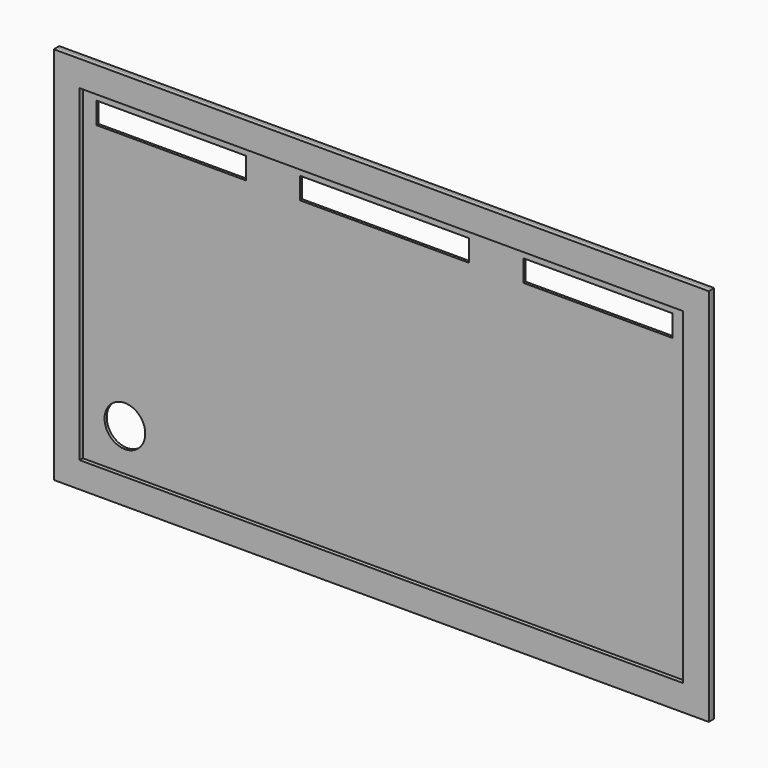
from build123d import *

# Parameters (mm, degrees)
F0_W     = 241.3
F0_H     = 139.7
F1_DEPTH = 1.016
F3_R     = 7.5
F3_W     = 55
F3_H     = 8
F3_W_2   = 62.25
F4_DEPTH = 1.017
F2_W     = 241.3
F2_H     = 139.7
F2_W_2   = 222.25
F2_H_2   = 120.65
F5_DEPTH = 1.5


with BuildPart() as f1:
    # F0 (on Front) → F1 (new body)
    with BuildSketch(Plane.XZ):
        Rectangle(F0_W, F0_H)
    extrude(amount=F1_DEPTH)

    # F3 (on face) → F4 (cut, through all)
    with BuildSketch(Plane.XZ.offset(1.016)):
        with Locations((-95.65, -44.85)):
            Circle(F3_R)
        with Locations((-78.625, 53.325)):
            Rectangle(F3_W, F3_H)
        with Locations((0, 53.325)):
            Rectangle(F3_W_2, F3_H)
        with Locations((78.625, 53.325)):
            Rectangle(F3_W, F3_H)
    extrude(amount=-F4_DEPTH, mode=Mode.SUBTRACT)


with BuildPart() as f5:
    # F2 (on face) → F5 (new body)
    with BuildSketch(Plane.XZ.offset(1.016)):
        Rectangle(F2_W, F2_H)
        Rectangle(F2_W_2, F2_H_2, mode=Mode.SUBTRACT)
    extrude(amount=F5_DEPTH)


solid = Compound([f1.part, f5.part])
